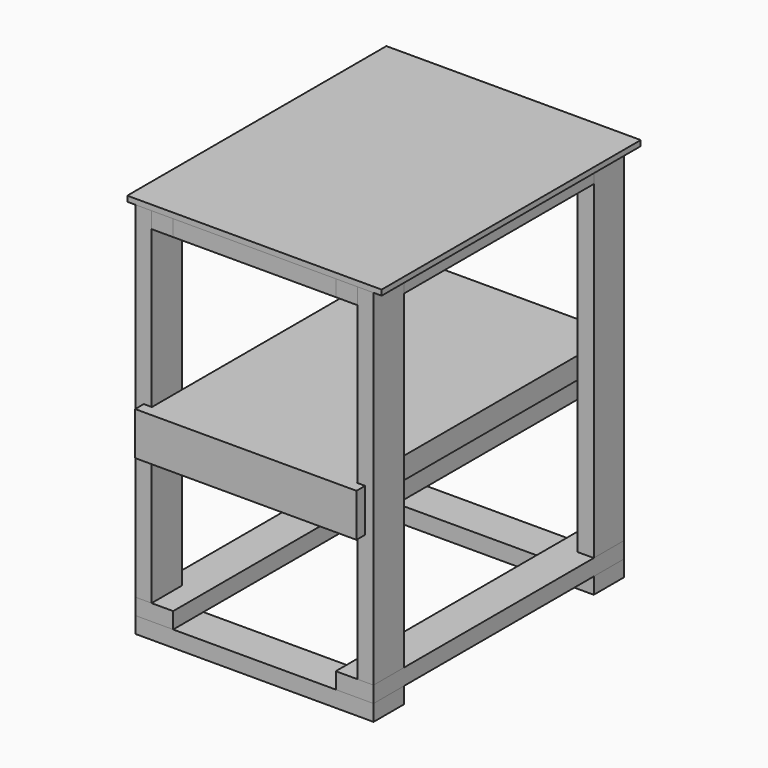
from build123d import *

# Parameters (mm, degrees)
F0_W      = 457.2
F0_H      = 50.8
F0_W_2    = 12.7
F1_DEPTH  = 762
F2_W      = 520.7
F2_H      = 101.6
F3_DEPTH  = 25.4
F4_W      = 38.1
F4_H      = 88.9
F5_DEPTH  = 406.4
F6_W      = 88.9
F6_H      = 38.1
F7_DEPTH  = 736.6
F8_W      = 88.9
F8_H      = 38.1
F9_DEPTH  = 560.3875
F11_DEPTH = 38.1
F10_W     = 382.5875
F10_H     = 88.9
F12_DEPTH = 38.1
F13_W     = 598.4875
F13_H     = 12.7
F14_DEPTH = 762


with BuildPart() as f1:
    # F0 (on Front) → F1 (new body)
    with BuildSketch(Plane.XZ):
        with Locations((0, 25.4)):
            Rectangle(F0_W, F0_H)
        with Locations((234.95, 25.4)):
            Rectangle(F0_W_2, F0_H)
        with Locations((-234.95, 25.4)):
            Rectangle(F0_W_2, F0_H)
        with Locations((0, -25.4)):
            Rectangle(F0_W, F0_H)
    extrude(amount=-F1_DEPTH)

    # F2 (on face) → F3 (join)
    with BuildSketch(Plane.XZ):
        Rectangle(F2_W, F2_H)
    extrude(amount=F3_DEPTH)


with BuildPart() as f5:
    # F4 (on face) → F5 (new body, symmetric)
    with BuildSketch(Plane.XY.offset(50.8)):
        with Locations((-261.14375, 44.45)):
            Rectangle(F4_W, F4_H)
    extrude(amount=F5_DEPTH, both=True)


with BuildPart() as f5b:
    # F4 (on face) → F5, piece 2 (new body, symmetric)
    with BuildSketch(Plane.XY.offset(50.8)):
        with Locations((-261.14375, 692.15)):
            Rectangle(F4_W, F4_H)
    extrude(amount=F5_DEPTH, both=True)


with BuildPart() as f5c:
    # F4 (on face) → F5, piece 3 (new body, symmetric)
    with BuildSketch(Plane.XY.offset(50.8)):
        with Locations((261.14375, 692.15)):
            Rectangle(F4_W, F4_H)
    extrude(amount=F5_DEPTH, both=True)


with BuildPart() as f5d:
    # F4 (on face) → F5, piece 4 (new body, symmetric)
    with BuildSketch(Plane.XY.offset(50.8)):
        with Locations((261.14375, 44.45)):
            Rectangle(F4_W, F4_H)
    extrude(amount=F5_DEPTH, both=True)


with BuildPart() as f7:
    # F6 (on face) → F7 (new body, through all)
    with BuildSketch(Plane.XZ):
        with Locations((-235.74375, -374.65)):
            Rectangle(F6_W, F6_H)
    extrude(amount=-F7_DEPTH)


with BuildPart() as f7b:
    # F6 (on face) → F7, piece 2 (new body, through all)
    with BuildSketch(Plane.XZ):
        with Locations((235.74375, -374.65)):
            Rectangle(F6_W, F6_H)
    extrude(amount=-F7_DEPTH)


with BuildPart() as f9:
    # F8 (on face) → F9 (new body, through all)
    with BuildSketch(Plane.YZ.offset(280.19375)):
        with Locations((44.45, -412.75)):
            Rectangle(F8_W, F8_H)
    extrude(amount=-F9_DEPTH)


with BuildPart() as f9b:
    # F8 (on face) → F9, piece 2 (new body, through all)
    with BuildSketch(Plane.YZ.offset(280.19375)):
        with Locations((692.15, -412.75)):
            Rectangle(F8_W, F8_H)
    extrude(amount=-F9_DEPTH)


with BuildPart() as f11:
    # F10 (on face) → F11 (new body)
    with BuildSketch(Plane.XY.offset(457.2)):
        Polygon((-242.09375, 647.7), (-280.19375, 647.7), (-280.19375, 88.9), (-242.09375, 88.9), (-242.09375, 0), (-191.29375, 0), (-191.29375, 88.9), (-191.29375, 647.7), (-191.29375, 736.6), (-242.09375, 736.6), align=None)
    extrude(amount=-F11_DEPTH)


with BuildPart() as f11b:
    # F10 (on face) → F11, piece 2 (new body)
    with BuildSketch(Plane.XY.offset(457.2)):
        Polygon((242.09375, 736.6), (191.29375, 736.6), (191.29375, 647.7), (191.29375, 88.9), (191.29375, 0), (242.09375, 0), (242.09375, 88.9), (280.19375, 88.9), (280.19375, 647.7), (242.09375, 647.7), align=None)
    extrude(amount=-F11_DEPTH)


with BuildPart() as f12:
    # F10 (on face) → F12 (new body)
    with BuildSketch(Plane.XY.offset(457.2)):
        with Locations((0, 692.15)):
            Rectangle(F10_W, F10_H)
    extrude(amount=-F12_DEPTH)


with BuildPart() as f12b:
    # F10 (on face) → F12, piece 2 (new body)
    with BuildSketch(Plane.XY.offset(457.2)):
        with Locations((0, 44.45)):
            Rectangle(F10_W, F10_H)
    extrude(amount=-F12_DEPTH)


with BuildPart() as f14:
    # F13 (on face) → F14 (new body)
    with BuildSketch(Plane.XZ):
        with Locations((0, 463.55)):
            Rectangle(F13_W, F13_H)
    extrude(amount=-F14_DEPTH)


solid = Compound([f1.part, f5.part, f5b.part, f5c.part, f5d.part, f7.part, f7b.part, f9.part, f9b.part, f11.part, f11b.part, f12.part, f12b.part, f14.part])
